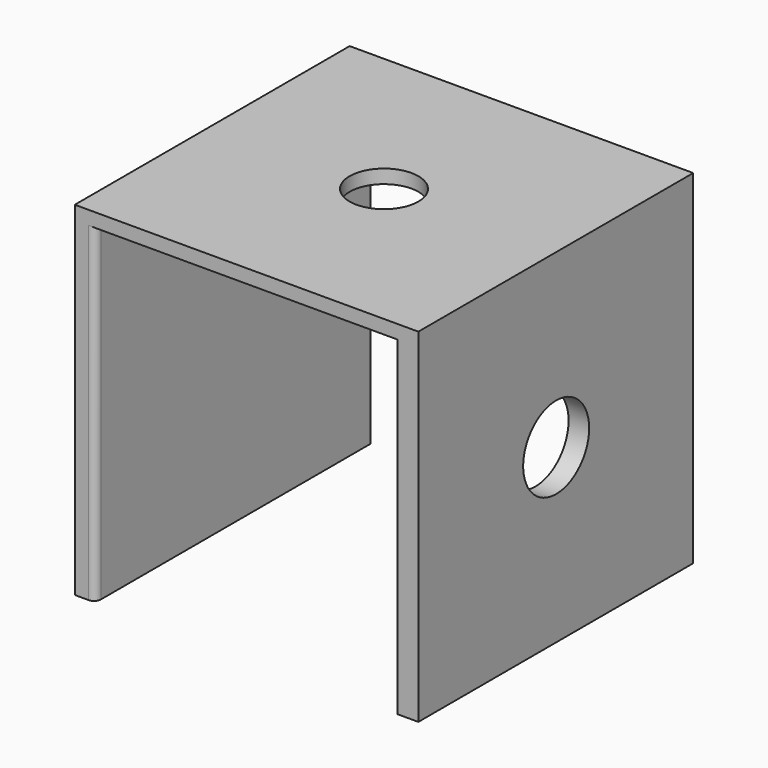
from build123d import *

# Parameters (mm, degrees)
BOX003_W        = 44
BOX003_H        = 60
BOX003_DEPTH    = 50
BOX002_W        = 50
BOX002_H        = 50
BOX002_DEPTH    = 50
SKETCH002_R     = 5.003926
POCKET001_DEPTH = 58
SKETCH003_R     = 6
POCKET002_DEPTH = 5
FILLET_R        = 1


with BuildPart() as cubo003:
    # Box003 → Box003 (new body)
    with BuildSketch(Plane(origin=(117, -42, -2), x_dir=(1, 0, 0), z_dir=(0, 0, 1))):
        with Locations((22, 30)):
            Rectangle(BOX003_W, BOX003_H)
    extrude(amount=BOX003_DEPTH)


with BuildPart() as fillet_body:
    # Box002 → Box002 (new body)
    with BuildSketch(Plane(origin=(114, -39, 0), x_dir=(1, 0, 0), z_dir=(0, 0, 1))):
        with Locations((25, 25)):
            Rectangle(BOX002_W, BOX002_H)
    extrude(amount=BOX002_DEPTH)

    # Sketch002 → Pocket001 (cut)
    with BuildSketch(Plane(origin=(114, -39, 50), x_dir=(1, 0, 0), z_dir=(0, 0, 1))):
        with Locations((25, 25)):
            Circle(SKETCH002_R)
    extrude(amount=-POCKET001_DEPTH, mode=Mode.SUBTRACT)

    # Cut003: cut Cubo003
    add(cubo003.part, mode=Mode.SUBTRACT)

    # Sketch003 → Pocket002 (cut)
    with BuildSketch(Plane.YZ.offset(164)):
        with Locations((-13.931141, 25)):
            Circle(SKETCH003_R)
    extrude(amount=-POCKET002_DEPTH, mode=Mode.SUBTRACT)

    # Fillet
    fillet_edges = [fillet_body.edges().sort_by_distance(p)[0] for p in [
        (117, -39, 24),
    ]]
    fillet(fillet_edges, radius=FILLET_R)


solid = fillet_body.part
